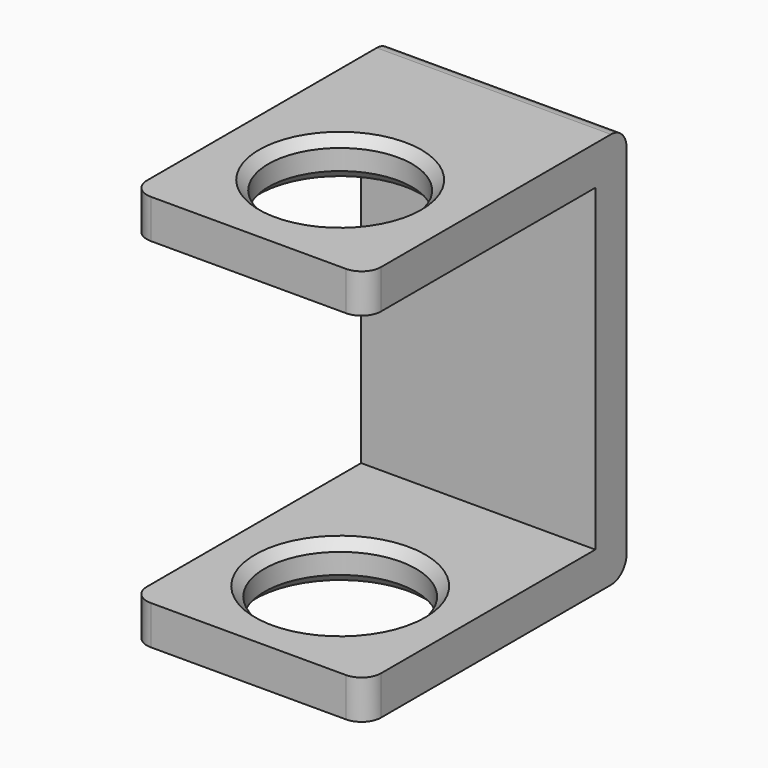
from build123d import *

# Parameters (mm, degrees)
F1_DEPTH = 19.05
F2_R     = 6.1595
F3_DEPTH = 25.4
F4_R     = 5.842
F5_DEPTH = 3.175
F6_R     = 1.5875
F7_SIZE  = 0.762


with BuildPart() as f1:
    # F0 (on Right) → F1 (new body)
    with BuildSketch(Plane.YZ):
        Polygon((0, 3.175), (0, 0), (26.542, 0), (26.542, 32.258), (0, 32.258), (0, 29.083), (23.367, 29.083), (23.367, 3.175), align=None)
    extrude(amount=F1_DEPTH)

    # F2 (on face) → F3 (cut)
    with BuildSketch(Plane.XY.offset(3.175)):
        with Locations((9.525, 9.3345)):
            Circle(F2_R)
    extrude(amount=-F3_DEPTH, mode=Mode.SUBTRACT)

    # F4 (on face) → F5 (cut, through all)
    with BuildSketch(Plane.XY.offset(32.258)):
        with Locations((9.525, 9.3345)):
            Circle(F4_R)
    extrude(amount=-F5_DEPTH, mode=Mode.SUBTRACT)

    # F6
    f6_edges = [f1.edges().sort_by_distance(p)[0] for p in [
        (19.05, 0, 30.6705),
        (0, 0, 30.6705),
        (0, 0, 1.5875),
        (19.05, 0, 1.5875),
        (9.525, 26.542, 32.258),
        (9.525, 26.542, 0),
    ]]
    fillet(f6_edges, radius=F6_R)

    # F7
    f7_edges = [f1.edges().sort_by_distance(p)[0] for p in [
        (3.3655, 9.3345, 0),
        (3.683, 9.3345, 29.083),
        (3.683, 9.3345, 32.258),
        (3.3655, 9.3345, 3.175),
    ]]
    chamfer(f7_edges, length=F7_SIZE)


solid = f1.part
